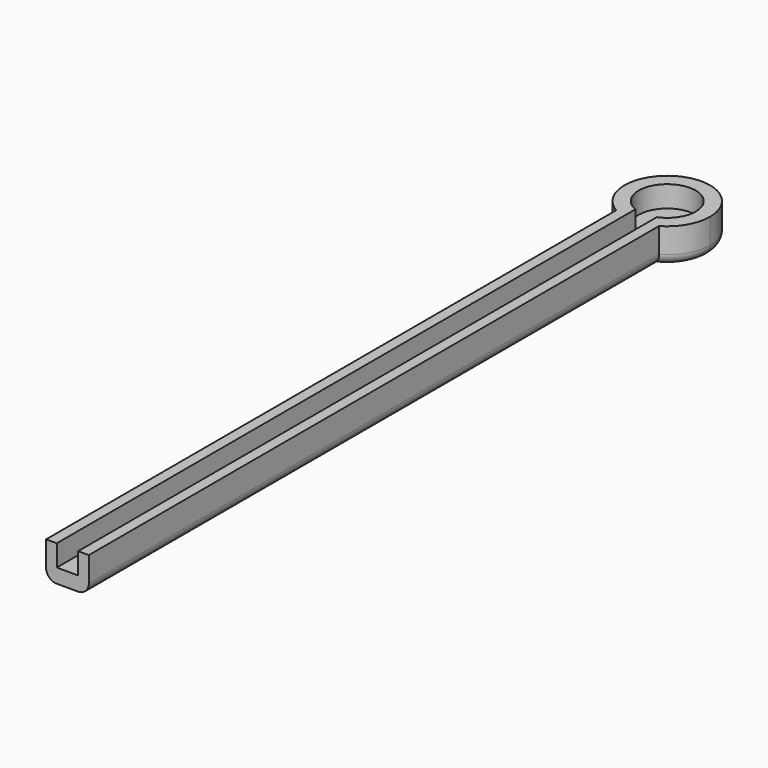
from build123d import *

# Parameters (mm, degrees)
F1_DEPTH = 10
F3_DEPTH = 6
F4_R     = 3


with BuildPart() as f1:
    # F0 (on Top) → F1 (new body)
    with BuildSketch(Plane.XY):
        with BuildLine():
            ThreePointArc((12, 110.3923048454), (-6, 120.7846096908), (-6, 100))
            Line((-6, 100), (6, 100))
            ThreePointArc((6, 100), (10.3923048454, 104.3923048454), (12, 110.3923048454))
        make_face()
        with BuildLine():
            ThreePointArc((6, 100), (0, 98.3923048454), (-6, 100))
            Line((-6, 100), (-6, -100))
            Line((-6, -100), (6, -100))
            Line((6, -100), (6, 100))
        make_face()
        with BuildLine():
            Line((6, 100), (-6, 100))
            ThreePointArc((-6, 100), (0, 98.3923048454), (6, 100))
        make_face()
    extrude(amount=F1_DEPTH)

    # F2 (on face) → F3 (cut)
    with BuildSketch(Plane.XY.offset(10)):
        with BuildLine():
            Line((3, -100), (3, 102.9761063583))
            ThreePointArc((3, 102.9761063583), (0, 118.3923048454), (-3, 102.9761063583))
            Line((-3, 102.9761063583), (-3, -100))
            Line((-3, -100), (3, -100))
        make_face()
    extrude(amount=-F3_DEPTH, mode=Mode.SUBTRACT)

    # F4
    f4_edges = [f1.edges().sort_by_distance(p)[0] for p in [
        (6, 0, 0),
        (0, 122.392305, 0),
        (-6, 0, 0),
    ]]
    fillet(f4_edges, radius=F4_R)


solid = f1.part
